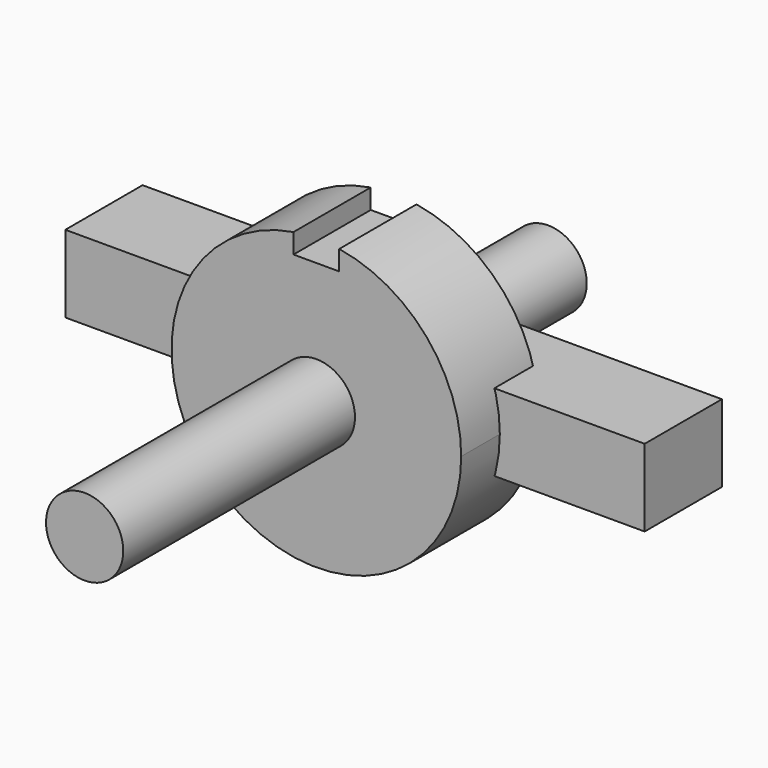
from build123d import *

# Parameters (mm, degrees)
F0_R          = 10
F1_DEPTH      = 25
F2_DEPTH      = 100
F2_DEPTH_BACK = 50
F3_W          = 150
F3_H          = 20
F4_DEPTH      = 12.5


with BuildPart() as f1:
    # F0 (on Front) → F1 (new body)
    with BuildSketch(Plane.XZ):
        with BuildLine():
            ThreePointArc((-5.922125, 37.029427), (-24.3328, -28.533574), (37.5, 0))
            ThreePointArc((37.5, 0), (28.533574, 24.3328), (5.922125, 37.029427))
            Line((5.922125, 37.029427), (5.922125, 31.897775))
            Line((5.922125, 31.897775), (-5.922125, 31.897775))
            Line((-5.922125, 31.897775), (-5.922125, 37.029427))
        make_face()
        Circle(F0_R, mode=Mode.SUBTRACT)
    extrude(amount=F1_DEPTH)


with BuildPart() as f2:
    # F0 (on Front) → F2 (new body, two sides)
    with BuildSketch(Plane.XZ) as f2_sk:
        Circle(F0_R)
    extrude(amount=F2_DEPTH)
    extrude(f2_sk.sketch, amount=-F2_DEPTH_BACK)


with BuildPart() as f4:
    # F3 (on Front) → F4 (new body, symmetric)
    with BuildSketch(Plane.XZ):
        Rectangle(F3_W, F3_H)
    extrude(amount=F4_DEPTH, both=True)


solid = Compound([f1.part, f2.part, f4.part])
